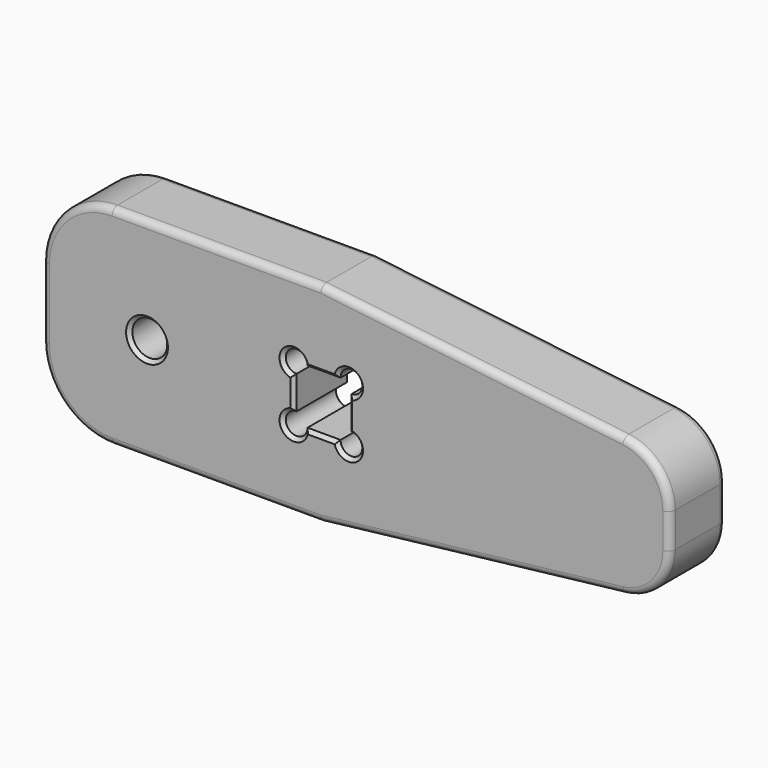
from build123d import *

# Parameters (mm, degrees)
F0_R     = 3.175
F1_DEPTH = 12.7
F2_R     = 1.27
F3_SIZE  = 0.635


with BuildPart() as f1:
    # F0 (on Front) → F1 (new body)
    with BuildSketch(Plane.XZ):
        with BuildLine():
            Line((-38.1, -19.05), (0, -19.05))
            Line((0, -19.05), (55.076783, -12.636062))
            ThreePointArc((55.076783, -12.636062), (61.089074, -9.508685), (63.5, -3.175))
            Line((63.5, -3.175), (63.5, 3.175))
            ThreePointArc((63.5, 3.175), (61.089074, 9.508685), (55.076783, 12.636062))
            Line((55.076783, 12.636062), (0, 19.05))
            Line((0, 19.05), (-38.1, 19.05))
            ThreePointArc((-38.1, 19.05), (-47.080256, 15.330256), (-50.8, 6.35))
            Line((-50.8, 6.35), (-50.8, -6.35))
            ThreePointArc((-50.8, -6.35), (-47.080256, -15.330256), (-38.1, -19.05))
        make_face()
        with Locations((-31.75, 0)):
            Circle(F0_R, mode=Mode.SUBTRACT)
        with BuildLine():
            ThreePointArc((4.9911, -3.0099), (6.39202, -6.39202), (3.0099, -4.9911))
            Line((3.0099, -4.9911), (-3.0099, -4.9911))
            ThreePointArc((-3.0099, -4.9911), (-6.39202, -6.39202), (-4.9911, -3.0099))
            Line((-4.9911, -3.0099), (-4.9911, 3.0099))
            ThreePointArc((-4.9911, 3.0099), (-6.39202, 6.39202), (-3.0099, 4.9911))
            Line((-3.0099, 4.9911), (3.0099, 4.9911))
            ThreePointArc((3.0099, 4.9911), (6.39202, 6.39202), (4.9911, 3.0099))
            Line((4.9911, 3.0099), (4.9911, -3.0099))
        make_face(mode=Mode.SUBTRACT)
    extrude(amount=F1_DEPTH)

    # F2
    f2_edges = [f1.edges().sort_by_distance(p)[0] for p in [
        (-19.05, -12.7, 19.05),
        (27.538392, -12.7, 15.843031),
        (-19.05, 0, 19.05),
        (27.538392, 0, 15.843031),
    ]]
    fillet(f2_edges, radius=F2_R)

    # F3
    f3_edges = [f1.edges().sort_by_distance(p)[0] for p in [
        (-34.925, -12.7, 0),
        (-4.9911, -12.7, 0),
        (0, -12.7, 4.9911),
        (4.9911, -12.7, 0),
        (0, -12.7, -4.9911),
        (6.39202, -12.7, -6.39202),
        (-6.39202, -12.7, -6.39202),
        (-6.39202, -12.7, 6.39202),
        (6.39202, -12.7, 6.39202),
        (-34.925, 0, 0),
        (-4.9911, 0, 0),
        (-6.39202, 0, 6.39202),
        (0, 0, 4.9911),
        (6.39202, 0, 6.39202),
        (4.9911, 0, 0),
        (6.39202, 0, -6.39202),
        (0, 0, -4.9911),
        (-6.39202, 0, -6.39202),
    ]]
    chamfer(f3_edges, length=F3_SIZE)


solid = f1.part
